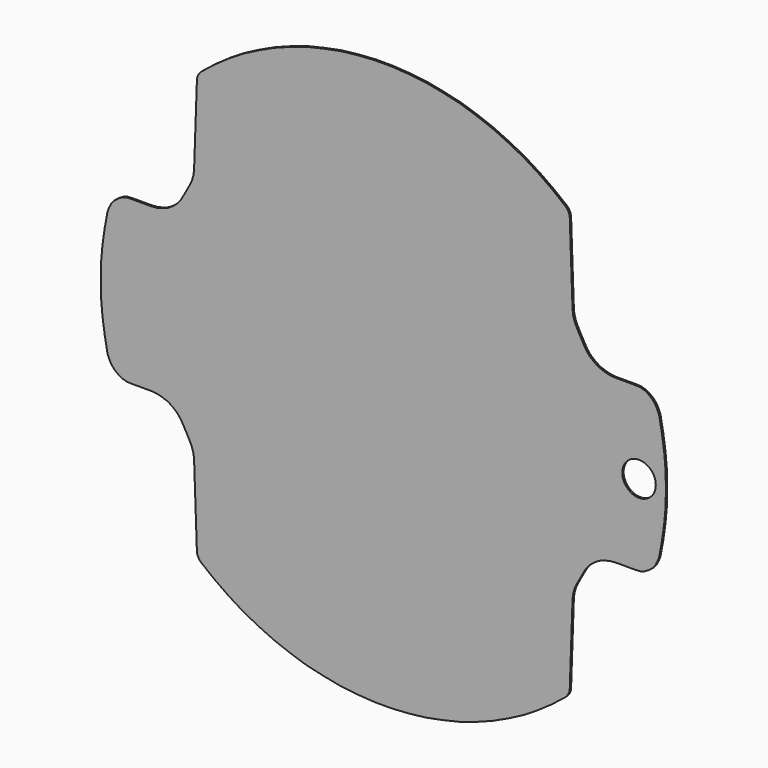
from build123d import *

# Parameters (mm, degrees)
F0_R     = 2
F1_DEPTH = 0.2


with BuildPart() as f1:
    # F0 (on Front) → F1 (new body)
    with BuildSketch(Plane.XZ):
        with BuildLine():
            add(Edge.make_bspline(
                [(23.697758, -14.841087), (23.71353, -14.808144), (23.745074, -14.742257), (23.79239, -14.643428), (23.823934, -14.577542), (23.839706, -14.544599)],
                knots=[0, 0, 0, 0, 0.109572, 0.219144, 0.328716, 0.328716, 0.328716, 0.328716], degree=3))
            add(Edge.make_bspline(
                [(23.839706, -14.544599), (23.857681, -14.506988), (23.893632, -14.431765), (23.947559, -14.318932), (23.98351, -14.24371), (24.001485, -14.206099)],
                knots=[0, 0, 0, 0, 0.125058, 0.250116, 0.375173, 0.375173, 0.375173, 0.375173], degree=3))
            add(Edge.make_bspline(
                [(24.001485, -14.206099), (24.079485, -14.064599), (24.235485, -13.781598), (24.469485, -13.357098), (24.625485, -13.074098), (24.703485, -12.932598)],
                knots=[0, 0, 0, 0, 0.484723, 0.969446, 1.454169, 1.454169, 1.454169, 1.454169], degree=3))
            add(Edge.make_bspline(
                [(24.703485, -12.932598), (24.740344, -12.869531), (24.814064, -12.743396), (24.924642, -12.554193), (24.998361, -12.428058), (25.035221, -12.364991)],
                knots=[0, 0, 0, 0, 0.219147, 0.438293, 0.65744, 0.65744, 0.65744, 0.65744], degree=3))
            add(Edge.make_bspline(
                [(25.035221, -12.364991), (25.083973, -12.305726), (25.181477, -12.187196), (25.327733, -12.009402), (25.425236, -11.890872), (25.473988, -11.831607)],
                knots=[0, 0, 0, 0, 0.230221, 0.460442, 0.690663, 0.690663, 0.690663, 0.690663], degree=3))
            add(Edge.make_bspline(
                [(25.473988, -11.831607), (25.53346, -11.783279), (25.652405, -11.686622), (25.830821, -11.541637), (25.949765, -11.44498), (26.009237, -11.396651)],
                knots=[0, 0, 0, 0, 0.229898, 0.459796, 0.689694, 0.689694, 0.689694, 0.689694], degree=3))
            add(Edge.make_bspline(
                [(26.009237, -11.396651), (26.072413, -11.35581), (26.198765, -11.274127), (26.388292, -11.151602), (26.514644, -11.069919), (26.57782, -11.029078)],
                knots=[0, 0, 0, 0, 0.225683, 0.451367, 0.67705, 0.67705, 0.67705, 0.67705], degree=3))
            add(Edge.make_bspline(
                [(26.57782, -11.029078), (26.648376, -11.003053), (26.789489, -10.951004), (27.001158, -10.872929), (27.14227, -10.82088), (27.212827, -10.794855)],
                knots=[0, 0, 0, 0, 0.225609, 0.451218, 0.676826, 0.676826, 0.676826, 0.676826], degree=3))
            add(Edge.make_bspline(
                [(27.212827, -10.794855), (27.283383, -10.776278), (27.424495, -10.739124), (27.636163, -10.683393), (27.777275, -10.646239), (27.847831, -10.627662)],
                knots=[0, 0, 0, 0, 0.218882, 0.437764, 0.656646, 0.656646, 0.656646, 0.656646], degree=3))
            add(Edge.make_bspline(
                [(27.847831, -10.627662), (27.925921, -10.620217), (28.082099, -10.605327), (28.316368, -10.582992), (28.472547, -10.568103), (28.550636, -10.560658)],
                knots=[0, 0, 0, 0, 0.235331, 0.470661, 0.705992, 0.705992, 0.705992, 0.705992], degree=3))
            add(Edge.make_bspline(
                [(28.550636, -10.560658), (28.814361, -10.560667), (29.34181, -10.560685), (30.132983, -10.560713), (30.660432, -10.560731), (30.924156, -10.56074)],
                knots=[0, 0, 0, 0, 0.791173, 1.582347, 2.37352, 2.37352, 2.37352, 2.37352], degree=3))
            add(Edge.make_bspline(
                [(30.924156, -10.56074), (30.987257, -10.557018), (31.113458, -10.549575), (31.30276, -10.53841), (31.428961, -10.530967), (31.492061, -10.527246)],
                knots=[0, 0, 0, 0, 0.189631, 0.379261, 0.568892, 0.568892, 0.568892, 0.568892], degree=3))
            add(Edge.make_bspline(
                [(31.492061, -10.527246), (31.551532, -10.508668), (31.670472, -10.471513), (31.848882, -10.41578), (31.967823, -10.378625), (32.027293, -10.360047)],
                knots=[0, 0, 0, 0, 0.186913, 0.373826, 0.560739, 0.560739, 0.560739, 0.560739], degree=3))
            add(Edge.make_bspline(
                [(32.027293, -10.360047), (32.079261, -10.330377), (32.183198, -10.271036), (32.339103, -10.182024), (32.443039, -10.122683), (32.495007, -10.093012)],
                knots=[0, 0, 0, 0, 0.179525, 0.359051, 0.538576, 0.538576, 0.538576, 0.538576], degree=3))
            add(Edge.make_bspline(
                [(32.495007, -10.093012), (32.543347, -10.055854), (32.640027, -9.981539), (32.785047, -9.870066), (32.881727, -9.795751), (32.930067, -9.758594)],
                knots=[0, 0, 0, 0, 0.182912, 0.365825, 0.548737, 0.548737, 0.548737, 0.548737], degree=3))
            add(Edge.make_bspline(
                [(32.930067, -9.758594), (32.970904, -9.710304), (33.052578, -9.613724), (33.17509, -9.468855), (33.256764, -9.372275), (33.297601, -9.323985)],
                knots=[0, 0, 0, 0, 0.189727, 0.379453, 0.56918, 0.56918, 0.56918, 0.56918], degree=3))
            add(Edge.make_bspline(
                [(33.297601, -9.323985), (33.327354, -9.268287), (33.386859, -9.15689), (33.476116, -8.989794), (33.535621, -8.878397), (33.565373, -8.822699)],
                knots=[0, 0, 0, 0, 0.189441, 0.378881, 0.568322, 0.568322, 0.568322, 0.568322], degree=3))
            add(Edge.make_bspline(
                [(33.565373, -8.822699), (33.587638, -8.766921), (33.632168, -8.655367), (33.698962, -8.488035), (33.743492, -8.376481), (33.765757, -8.320703)],
                knots=[0, 0, 0, 0, 0.180171, 0.360341, 0.540512, 0.540512, 0.540512, 0.540512], degree=3))
            add(Edge.make_bspline(
                [(33.765757, -8.320703), (33.802971, -8.116368), (33.877399, -7.707698), (33.989042, -7.094693), (34.06347, -6.686023), (34.100684, -6.481688)],
                knots=[0, 0, 0, 0, 0.623089, 1.246177, 1.869266, 1.869266, 1.869266, 1.869266], degree=3))
            add(Edge.make_bspline(
                [(34.100684, -6.481688), (34.130365, -6.273668), (34.189726, -5.857628), (34.278769, -5.233569), (34.33813, -4.817529), (34.367811, -4.60951)],
                knots=[0, 0, 0, 0, 0.63038, 1.260759, 1.891139, 1.891139, 1.891139, 1.891139], degree=3))
            add(Edge.make_bspline(
                [(34.367811, -4.60951), (34.38636, -4.401489), (34.423459, -3.985449), (34.479107, -3.361388), (34.516206, -2.945347), (34.534755, -2.737327)],
                knots=[0, 0, 0, 0, 0.626537, 1.253074, 1.879611, 1.879611, 1.879611, 1.879611], degree=3))
            add(Edge.make_bspline(
                [(34.534755, -2.737327), (34.538514, -2.529361), (34.546031, -2.113429), (34.557306, -1.489532), (34.564823, -1.0736), (34.568582, -0.865634)],
                knots=[0, 0, 0, 0, 0.624, 1.247999, 1.871999, 1.871999, 1.871999, 1.871999], degree=3))
            add(Edge.make_bspline(
                [(34.568582, -0.865634), (34.564838, -0.657613), (34.557349, -0.241571), (34.546117, 0.382492), (34.538629, 0.798533), (34.534885, 1.006554)],
                knots=[0, 0, 0, 0, 0.624164, 1.248328, 1.872492, 1.872492, 1.872492, 1.872492], degree=3))
            add(Edge.make_bspline(
                [(34.534885, 1.006554), (34.517847, 1.197764), (34.483773, 1.580185), (34.432662, 2.153815), (34.398588, 2.536235), (34.381551, 2.727445)],
                knots=[0, 0, 0, 0, 0.575903, 1.151806, 1.727709, 1.727709, 1.727709, 1.727709], degree=3))
            add(Edge.make_bspline(
                [(34.381551, 2.727445), (34.380053, 2.744229), (34.377057, 2.777797), (34.372563, 2.828149), (34.369567, 2.861717), (34.36807, 2.878501)],
                knots=[0, 0, 0, 0, 0.050552, 0.101104, 0.151656, 0.151656, 0.151656, 0.151656], degree=3))
            add(Edge.make_bspline(
                [(34.36807, 2.878501), (34.338403, 3.086598), (34.27907, 3.502791), (34.190071, 4.12708), (34.130738, 4.543272), (34.101072, 4.751369)],
                knots=[0, 0, 0, 0, 0.630601, 1.261202, 1.891803, 1.891803, 1.891803, 1.891803], degree=3))
            add(Edge.make_bspline(
                [(34.101072, 4.751369), (34.063872, 4.955675), (33.989472, 5.364287), (33.877872, 5.977206), (33.803472, 6.385819), (33.766272, 6.590125)],
                knots=[0, 0, 0, 0, 0.622996, 1.245992, 1.868987, 1.868987, 1.868987, 1.868987], degree=3))
            add(Edge.make_bspline(
                [(33.766272, 6.590125), (33.760779, 6.603905), (33.749793, 6.631466), (33.733314, 6.672807), (33.722328, 6.700368), (33.716835, 6.714148)],
                knots=[0, 0, 0, 0, 0.044504, 0.089009, 0.133513, 0.133513, 0.133513, 0.133513], degree=3))
            add(Edge.make_bspline(
                [(33.716835, 6.714148), (33.700067, 6.756131), (33.666531, 6.840096), (33.616227, 6.966044), (33.582691, 7.05001), (33.565923, 7.091993)],
                knots=[0, 0, 0, 0, 0.135622, 0.271245, 0.406867, 0.406867, 0.406867, 0.406867], degree=3))
            add(Edge.make_bspline(
                [(33.565923, 7.091993), (33.536174, 7.14765), (33.476677, 7.258965), (33.387431, 7.425937), (33.327934, 7.537252), (33.298185, 7.59291)],
                knots=[0, 0, 0, 0, 0.189327, 0.378653, 0.56798, 0.56798, 0.56798, 0.56798], degree=3))
            add(Edge.make_bspline(
                [(33.298185, 7.59291), (33.257352, 7.641281), (33.175684, 7.738023), (33.053183, 7.883136), (32.971515, 7.979879), (32.930681, 8.02825)],
                knots=[0, 0, 0, 0, 0.189906, 0.379813, 0.569719, 0.569719, 0.569719, 0.569719], degree=3))
            add(Edge.make_bspline(
                [(32.930681, 8.02825), (32.882369, 8.065317), (32.785744, 8.139452), (32.640806, 8.250653), (32.544181, 8.324788), (32.495868, 8.361855)],
                knots=[0, 0, 0, 0, 0.182682, 0.365364, 0.548046, 0.548046, 0.548046, 0.548046], degree=3))
            add(Edge.make_bspline(
                [(32.495868, 8.361855), (32.483634, 8.368876), (32.459165, 8.382917), (32.422462, 8.403979), (32.397993, 8.41802), (32.385758, 8.425041)],
                knots=[0, 0, 0, 0, 0.042317, 0.084634, 0.126951, 0.126951, 0.126951, 0.126951], degree=3))
            add(Edge.make_bspline(
                [(32.385758, 8.425041), (32.346002, 8.447839), (32.266489, 8.493435), (32.147219, 8.56183), (32.067705, 8.607426), (32.027949, 8.630225)],
                knots=[0, 0, 0, 0, 0.137489, 0.274977, 0.412466, 0.412466, 0.412466, 0.412466], degree=3))
            add(Edge.make_bspline(
                [(32.027949, 8.630225), (31.9996, 8.639064), (31.942902, 8.656742), (31.857855, 8.68326), (31.801156, 8.700939), (31.772807, 8.709778)],
                knots=[0, 0, 0, 0, 0.089085, 0.178171, 0.267256, 0.267256, 0.267256, 0.267256], degree=3))
            add(Edge.make_bspline(
                [(31.772807, 8.709778), (31.741733, 8.71945), (31.679585, 8.738793), (31.586363, 8.767809), (31.524215, 8.787152), (31.493141, 8.796824)],
                knots=[0, 0, 0, 0, 0.097633, 0.195267, 0.2929, 0.2929, 0.2929, 0.2929], degree=3))
            add(Edge.make_bspline(
                [(31.493141, 8.796824), (31.453887, 8.799141), (31.375379, 8.803776), (31.257617, 8.810728), (31.179109, 8.815363), (31.139855, 8.81768)],
                knots=[0, 0, 0, 0, 0.117967, 0.235934, 0.353901, 0.353901, 0.353901, 0.353901], degree=3))
            add(Edge.make_bspline(
                [(31.139855, 8.81768), (31.115963, 8.819073), (31.068179, 8.821859), (30.996502, 8.826038), (30.948718, 8.828823), (30.924826, 8.830216)],
                knots=[0, 0, 0, 0, 0.071798, 0.143596, 0.215394, 0.215394, 0.215394, 0.215394], degree=3))
            add(Edge.make_bspline(
                [(30.924826, 8.830216), (30.661101, 8.830225), (30.133652, 8.830244), (29.342479, 8.830271), (28.81503, 8.830289), (28.551306, 8.830298)],
                knots=[0, 0, 0, 0, 0.791173, 1.582347, 2.37352, 2.37352, 2.37352, 2.37352], degree=3))
            add(Edge.make_bspline(
                [(28.551306, 8.830298), (28.473217, 8.837756), (28.317039, 8.852672), (28.082772, 8.875046), (27.926594, 8.889962), (27.848505, 8.89742)],
                knots=[0, 0, 0, 0, 0.235333, 0.470666, 0.705998, 0.705998, 0.705998, 0.705998], degree=3))
            add(Edge.make_bspline(
                [(27.848505, 8.89742), (27.777951, 8.915963), (27.636841, 8.953049), (27.425177, 9.008677), (27.284067, 9.045763), (27.213512, 9.064306)],
                knots=[0, 0, 0, 0, 0.218852, 0.437705, 0.656557, 0.656557, 0.656557, 0.656557], degree=3))
            add(Edge.make_bspline(
                [(27.213512, 9.064306), (27.142958, 9.090324), (27.001849, 9.14236), (26.790185, 9.220413), (26.649076, 9.272449), (26.578522, 9.298466)],
                knots=[0, 0, 0, 0, 0.225597, 0.451193, 0.67679, 0.67679, 0.67679, 0.67679], degree=3))
            add(Edge.make_bspline(
                [(26.578522, 9.298466), (26.515349, 9.33932), (26.389003, 9.421028), (26.199484, 9.543589), (26.073138, 9.625297), (26.009965, 9.66615)],
                knots=[0, 0, 0, 0, 0.225696, 0.451392, 0.677088, 0.677088, 0.677088, 0.677088], degree=3))
            add(Edge.make_bspline(
                [(26.009965, 9.66615), (25.950343, 9.714369), (25.8311, 9.810807), (25.652235, 9.955463), (25.532991, 10.051901), (25.47337, 10.10012)],
                knots=[0, 0, 0, 0, 0.23004, 0.460079, 0.690119, 0.690119, 0.690119, 0.690119], degree=3))
            add(Edge.make_bspline(
                [(25.47337, 10.10012), (25.424775, 10.159651), (25.327585, 10.278713), (25.1818, 10.457305), (25.08461, 10.576367), (25.036015, 10.635898)],
                knots=[0, 0, 0, 0, 0.23054, 0.461079, 0.691619, 0.691619, 0.691619, 0.691619], degree=3))
            add(Edge.make_bspline(
                [(25.036015, 10.635898), (25.023759, 10.656903), (24.999247, 10.698913), (24.962478, 10.761928), (24.937966, 10.803938), (24.92571, 10.824943)],
                knots=[0, 0, 0, 0, 0.072958, 0.145915, 0.218873, 0.218873, 0.218873, 0.218873], degree=3))
            add(Edge.make_bspline(
                [(24.92571, 10.824943), (24.901111, 10.867071), (24.851913, 10.951326), (24.778116, 11.077709), (24.728917, 11.161964), (24.704318, 11.204091)],
                knots=[0, 0, 0, 0, 0.146351, 0.292702, 0.439053, 0.439053, 0.439053, 0.439053], degree=3))
            add(Edge.make_bspline(
                [(24.704318, 11.204091), (24.680698, 11.246847), (24.633457, 11.332358), (24.562595, 11.460625), (24.515354, 11.546136), (24.491733, 11.588892)],
                knots=[0, 0, 0, 0, 0.146539, 0.293079, 0.439618, 0.439618, 0.439618, 0.439618], degree=3))
            add(Edge.make_bspline(
                [(24.491733, 11.588892), (24.437364, 11.687234), (24.328624, 11.883919), (24.165515, 12.178945), (24.056776, 12.37563), (24.002407, 12.473972)],
                knots=[0, 0, 0, 0, 0.337113, 0.674226, 1.011339, 1.011339, 1.011339, 1.011339], degree=3))
            add(Edge.make_bspline(
                [(24.002407, 12.473972), (23.986299, 12.507681), (23.954083, 12.575099), (23.90576, 12.676226), (23.873545, 12.743644), (23.857437, 12.777353)],
                knots=[0, 0, 0, 0, 0.11208, 0.224159, 0.336239, 0.336239, 0.336239, 0.336239], degree=3))
            add(Edge.make_bspline(
                [(23.857437, 12.777353), (23.839802, 12.81417), (23.804532, 12.887802), (23.751628, 12.998251), (23.716358, 13.071883), (23.698723, 13.108699)],
                knots=[0, 0, 0, 0, 0.122466, 0.244931, 0.367397, 0.367397, 0.367397, 0.367397], degree=3))
            add(Edge.make_bspline(
                [(23.698723, 13.108699), (23.684762, 13.155404), (23.656839, 13.248813), (23.614954, 13.388927), (23.587031, 13.482336), (23.57307, 13.529041)],
                knots=[0, 0, 0, 0, 0.14624, 0.29248, 0.43872, 0.43872, 0.43872, 0.43872], degree=3))
            add(Edge.make_bspline(
                [(23.57307, 13.529041), (23.564723, 13.55689), (23.548028, 13.61259), (23.522987, 13.696139), (23.506293, 13.751838), (23.497946, 13.779688)],
                knots=[0, 0, 0, 0, 0.087221, 0.174442, 0.261663, 0.261663, 0.261663, 0.261663], degree=3))
            add(Edge.make_bspline(
                [(23.497946, 13.779688), (23.491223, 13.850188), (23.477778, 13.991189), (23.457611, 14.20269), (23.444166, 14.343691), (23.437444, 14.414191)],
                knots=[0, 0, 0, 0, 0.21246, 0.424921, 0.637381, 0.637381, 0.637381, 0.637381], degree=3))
            add(Edge.make_bspline(
                [(23.437444, 14.414191), (23.436729, 14.421655), (23.4353, 14.436582), (23.433156, 14.458973), (23.431727, 14.4739), (23.431012, 14.481364)],
                knots=[0, 0, 0, 0, 0.022493, 0.044987, 0.06748, 0.06748, 0.06748, 0.06748], degree=3))
            add(Edge.make_bspline(
                [(23.431012, 14.481364), (23.394191, 15.532637), (23.320549, 17.635183), (23.210086, 20.789002), (23.136443, 22.891548), (23.099622, 23.942821)],
                knots=[0, 0, 0, 0, 3.155753, 6.311506, 9.467259, 9.467259, 9.467259, 9.467259], degree=3))
            add(Edge.make_bspline(
                [(23.099622, 23.942821), (23.092184, 23.980059), (23.077307, 24.054535), (23.054992, 24.166248), (23.040115, 24.240724), (23.032677, 24.277962)],
                knots=[0, 0, 0, 0, 0.11392, 0.227841, 0.341761, 0.341761, 0.341761, 0.341761], degree=3))
            add(Edge.make_bspline(
                [(23.032677, 24.277962), (23.01386, 24.315232), (22.976225, 24.389771), (22.919773, 24.501579), (22.882138, 24.576119), (22.863321, 24.613388)],
                knots=[0, 0, 0, 0, 0.125252, 0.250504, 0.375756, 0.375756, 0.375756, 0.375756], degree=3))
            add(Edge.make_bspline(
                [(22.863321, 24.613388), (22.837448, 24.642787), (22.785701, 24.701585), (22.708081, 24.789782), (22.656335, 24.84858), (22.630462, 24.877979)],
                knots=[0, 0, 0, 0, 0.117488, 0.234977, 0.352465, 0.352465, 0.352465, 0.352465], degree=3))
            add(Edge.make_bspline(
                [(22.630462, 24.877979), (22.452118, 25.019064), (22.095431, 25.301236), (21.5604, 25.724493), (21.203713, 26.006664), (21.02537, 26.14775)],
                knots=[0, 0, 0, 0, 0.682205, 1.364411, 2.046616, 2.046616, 2.046616, 2.046616], degree=3))
            add(Edge.make_bspline(
                [(21.02537, 26.14775), (20.839582, 26.277891), (20.468007, 26.538175), (19.910645, 26.928601), (19.53907, 27.188885), (19.353282, 27.319027)],
                knots=[0, 0, 0, 0, 0.680504, 1.361007, 2.041511, 2.041511, 2.041511, 2.041511], degree=3))
            add(Edge.make_bspline(
                [(19.353282, 27.319027), (19.156519, 27.441722), (18.762993, 27.687112), (18.172704, 28.055196), (17.779178, 28.300586), (17.582415, 28.423281)],
                knots=[0, 0, 0, 0, 0.695649, 1.391298, 2.086947, 2.086947, 2.086947, 2.086947], degree=3))
            add(Edge.make_bspline(
                [(17.582415, 28.423281), (17.381732, 28.527192), (16.980365, 28.735015), (16.378314, 29.04675), (15.976947, 29.254573), (15.776264, 29.358484)],
                knots=[0, 0, 0, 0, 0.67797, 1.35594, 2.033909, 2.033909, 2.033909, 2.033909], degree=3))
            add(Edge.make_bspline(
                [(15.776264, 29.358484), (15.568121, 29.455277), (15.151835, 29.648862), (14.527406, 29.939239), (14.11112, 30.132824), (13.902977, 30.229616)],
                knots=[0, 0, 0, 0, 0.688644, 1.377288, 2.065932, 2.065932, 2.065932, 2.065932], degree=3))
            add(Edge.make_bspline(
                [(13.902977, 30.229616), (13.791209, 30.271985), (13.567674, 30.356722), (13.232372, 30.483828), (13.008837, 30.568566), (12.897069, 30.610934)],
                knots=[0, 0, 0, 0, 0.358586, 0.717171, 1.075757, 1.075757, 1.075757, 1.075757], degree=3))
            add(Edge.make_bspline(
                [(12.897069, 30.610934), (12.793654, 30.650106), (12.586822, 30.728451), (12.276574, 30.845967), (12.069743, 30.924312), (11.966327, 30.963484)],
                knots=[0, 0, 0, 0, 0.331758, 0.663517, 0.995275, 0.995275, 0.995275, 0.995275], degree=3))
            add(Edge.make_bspline(
                [(11.966327, 30.963484), (11.750743, 31.034047), (11.319576, 31.175172), (10.672826, 31.386861), (10.241658, 31.527987), (10.026075, 31.598549)],
                knots=[0, 0, 0, 0, 0.680513, 1.361027, 2.04154, 2.04154, 2.04154, 2.04154], degree=3))
            add(Edge.make_bspline(
                [(10.026075, 31.598549), (9.803031, 31.650678), (9.356944, 31.754934), (8.687814, 31.911318), (8.241727, 32.015575), (8.018683, 32.067703)],
                knots=[0, 0, 0, 0, 0.687162, 1.374324, 2.061487, 2.061487, 2.061487, 2.061487], degree=3))
            add(Edge.make_bspline(
                [(8.018683, 32.067703), (7.792123, 32.112405), (7.339004, 32.20181), (6.659325, 32.335917), (6.206206, 32.425321), (5.979646, 32.470023)],
                knots=[0, 0, 0, 0, 0.692783, 1.385566, 2.078349, 2.078349, 2.078349, 2.078349], degree=3))
            add(Edge.make_bspline(
                [(5.979646, 32.470023), (5.753097, 32.495892), (5.3, 32.54763), (4.620354, 32.625236), (4.167257, 32.676974), (3.940708, 32.702842)],
                knots=[0, 0, 0, 0, 0.684062, 1.368125, 2.052187, 2.052187, 2.052187, 2.052187], degree=3))
            add(Edge.make_bspline(
                [(3.940708, 32.702842), (3.714143, 32.717748), (3.261014, 32.74756), (2.58132, 32.792278), (2.128191, 32.82209), (1.901626, 32.836997)],
                knots=[0, 0, 0, 0, 0.681164, 1.362327, 2.043491, 2.043491, 2.043491, 2.043491], degree=3))
            add(Edge.make_bspline(
                [(1.901626, 32.836997), (1.671141, 32.837004), (1.210171, 32.83702), (0.518717, 32.837044), (0.057747, 32.83706), (-0.172738, 32.837068)],
                knots=[0, 0, 0, 0, 0.691455, 1.382909, 2.074364, 2.074364, 2.074364, 2.074364], degree=3))
            add(Edge.make_bspline(
                [(-0.172738, 32.837068), (-0.3993, 32.822178), (-0.852424, 32.792397), (-1.532109, 32.747726), (-1.985233, 32.717945), (-2.211795, 32.703055)],
                knots=[0, 0, 0, 0, 0.681152, 1.362304, 2.043456, 2.043456, 2.043456, 2.043456], degree=3))
            add(Edge.make_bspline(
                [(-2.211795, 32.703055), (-2.438357, 32.677202), (-2.891481, 32.625495), (-3.571167, 32.547936), (-4.024291, 32.49623), (-4.250853, 32.470377)],
                knots=[0, 0, 0, 0, 0.684097, 1.368194, 2.052292, 2.052292, 2.052292, 2.052292], degree=3))
            add(Edge.make_bspline(
                [(-4.250853, 32.470377), (-4.477416, 32.42569), (-4.930542, 32.336317), (-5.610231, 32.202257), (-6.063356, 32.112884), (-6.289919, 32.068197)],
                knots=[0, 0, 0, 0, 0.692783, 1.385567, 2.07835, 2.07835, 2.07835, 2.07835], degree=3))
            add(Edge.make_bspline(
                [(-6.289919, 32.068197), (-6.512955, 32.016084), (-6.959025, 31.911859), (-7.628131, 31.75552), (-8.074201, 31.651295), (-8.297236, 31.599182)],
                knots=[0, 0, 0, 0, 0.687127, 1.374255, 2.061382, 2.061382, 2.061382, 2.061382], degree=3))
            add(Edge.make_bspline(
                [(-8.297236, 31.599182), (-8.512472, 31.528634), (-8.942944, 31.387538), (-9.588651, 31.175894), (-10.019122, 31.034798), (-10.234358, 30.96425)],
                knots=[0, 0, 0, 0, 0.679508, 1.359015, 2.038523, 2.038523, 2.038523, 2.038523], degree=3))
            add(Edge.make_bspline(
                [(-10.234358, 30.96425), (-10.308373, 30.936266), (-10.456405, 30.880298), (-10.678452, 30.796345), (-10.826483, 30.740377), (-10.900499, 30.712393)],
                knots=[0, 0, 0, 0, 0.237388, 0.474776, 0.712163, 0.712163, 0.712163, 0.712163], degree=3))
            add(Edge.make_bspline(
                [(-10.900499, 30.712393), (-11.042033, 30.658851), (-11.325101, 30.551767), (-11.749702, 30.391142), (-12.03277, 30.284059), (-12.174304, 30.230517)],
                knots=[0, 0, 0, 0, 0.453968, 0.907936, 1.361904, 1.361904, 1.361904, 1.361904], degree=3))
            add(Edge.make_bspline(
                [(-12.174304, 30.230517), (-12.382446, 30.133739), (-12.798729, 29.940183), (-13.423155, 29.649848), (-13.839439, 29.456292), (-14.04758, 29.359514)],
                knots=[0, 0, 0, 0, 0.688623, 1.377245, 2.065868, 2.065868, 2.065868, 2.065868], degree=3))
            add(Edge.make_bspline(
                [(-14.04758, 29.359514), (-14.247883, 29.255617), (-14.648488, 29.047821), (-15.249396, 28.736128), (-15.650001, 28.528333), (-15.850304, 28.424435)],
                knots=[0, 0, 0, 0, 0.676936, 1.353873, 2.030809, 2.030809, 2.030809, 2.030809], degree=3))
            add(Edge.make_bspline(
                [(-15.850304, 28.424435), (-16.047432, 28.30177), (-16.441689, 28.056439), (-17.033073, 27.688442), (-17.427329, 27.443111), (-17.624458, 27.320446)],
                knots=[0, 0, 0, 0, 0.696532, 1.393064, 2.089597, 2.089597, 2.089597, 2.089597], degree=3))
            add(Edge.make_bspline(
                [(-17.624458, 27.320446), (-17.809866, 27.190301), (-18.180683, 26.930011), (-18.736908, 26.539576), (-19.107725, 26.279287), (-19.293134, 26.149142)],
                knots=[0, 0, 0, 0, 0.679578, 1.359155, 2.038733, 2.038733, 2.038733, 2.038733], degree=3))
            add(Edge.make_bspline(
                [(-19.293134, 26.149142), (-19.364344, 26.092847), (-19.506765, 25.980258), (-19.720395, 25.811374), (-19.862816, 25.698784), (-19.934026, 25.64249)],
                knots=[0, 0, 0, 0, 0.272323, 0.544647, 0.81697, 0.81697, 0.81697, 0.81697], degree=3))
            add(Edge.make_bspline(
                [(-19.934026, 25.64249), (-20.041209, 25.557711), (-20.255573, 25.388154), (-20.57712, 25.133818), (-20.791484, 24.96426), (-20.898666, 24.879482)],
                knots=[0, 0, 0, 0, 0.409974, 0.819949, 1.229923, 1.229923, 1.229923, 1.229923], degree=3))
            add(Edge.make_bspline(
                [(-20.898666, 24.879482), (-20.915889, 24.860204), (-20.950335, 24.821647), (-21.002004, 24.763813), (-21.03645, 24.725257), (-21.053673, 24.705978)],
                knots=[0, 0, 0, 0, 0.077553, 0.155107, 0.23266, 0.23266, 0.23266, 0.23266], degree=3))
            add(Edge.make_bspline(
                [(-21.053673, 24.705978), (-21.062714, 24.695828), (-21.080794, 24.675527), (-21.107915, 24.645076), (-21.125996, 24.624776), (-21.135036, 24.614625)],
                knots=[0, 0, 0, 0, 0.040778, 0.081555, 0.122333, 0.122333, 0.122333, 0.122333], degree=3))
            add(Edge.make_bspline(
                [(-21.135036, 24.614625), (-21.153421, 24.577388), (-21.190191, 24.502915), (-21.245345, 24.391204), (-21.282115, 24.31673), (-21.3005, 24.279493)],
                knots=[0, 0, 0, 0, 0.124585, 0.24917, 0.373754, 0.373754, 0.373754, 0.373754], degree=3))
            add(Edge.make_bspline(
                [(-21.3005, 24.279493), (-21.307949, 24.242255), (-21.322846, 24.167781), (-21.345193, 24.056069), (-21.36009, 23.981594), (-21.367539, 23.944357)],
                knots=[0, 0, 0, 0, 0.113925, 0.22785, 0.341775, 0.341775, 0.341775, 0.341775], degree=3))
            add(Edge.make_bspline(
                [(-21.367539, 23.944357), (-21.404852, 22.893086), (-21.479478, 20.790545), (-21.591417, 17.636734), (-21.666044, 15.534193), (-21.703357, 14.482922)],
                knots=[0, 0, 0, 0, 3.155797, 6.311595, 9.467392, 9.467392, 9.467392, 9.467392], degree=3))
            add(Edge.make_bspline(
                [(-21.703357, 14.482922), (-21.710768, 14.404927), (-21.72559, 14.248938), (-21.747823, 14.014953), (-21.762645, 13.858964), (-21.770056, 13.780969)],
                knots=[0, 0, 0, 0, 0.235038, 0.470077, 0.705115, 0.705115, 0.705115, 0.705115], degree=3))
            add(Edge.make_bspline(
                [(-21.770056, 13.780969), (-21.79244, 13.706448), (-21.837209, 13.557405), (-21.904362, 13.333841), (-21.94913, 13.184798), (-21.971515, 13.110276)],
                knots=[0, 0, 0, 0, 0.233432, 0.466864, 0.700296, 0.700296, 0.700296, 0.700296], degree=3))
            add(Edge.make_bspline(
                [(-21.971515, 13.110276), (-21.979551, 13.09329), (-21.995625, 13.059317), (-22.019736, 13.008358), (-22.035809, 12.974385), (-22.043846, 12.957399)],
                knots=[0, 0, 0, 0, 0.056375, 0.11275, 0.169125, 0.169125, 0.169125, 0.169125], degree=3))
            add(Edge.make_bspline(
                [(-22.043846, 12.957399), (-22.06913, 12.903862), (-22.119696, 12.796789), (-22.195547, 12.63618), (-22.246113, 12.529106), (-22.271397, 12.47557)],
                knots=[0, 0, 0, 0, 0.17762, 0.355239, 0.532859, 0.532859, 0.532859, 0.532859], degree=3))
            add(Edge.make_bspline(
                [(-22.271397, 12.47557), (-22.349405, 12.334509), (-22.50542, 12.052387), (-22.739444, 11.629204), (-22.895459, 11.347082), (-22.973467, 11.206021)],
                knots=[0, 0, 0, 0, 0.483581, 0.967163, 1.450744, 1.450744, 1.450744, 1.450744], degree=3))
            add(Edge.make_bspline(
                [(-22.973467, 11.206021), (-22.988676, 11.180225), (-23.019094, 11.128634), (-23.064721, 11.051248), (-23.095139, 10.999657), (-23.110348, 10.973861)],
                knots=[0, 0, 0, 0, 0.089836, 0.179672, 0.269508, 0.269508, 0.269508, 0.269508], degree=3))
            add(Edge.make_bspline(
                [(-23.110348, 10.973861), (-23.132339, 10.936511), (-23.176323, 10.86181), (-23.242297, 10.749759), (-23.286281, 10.675059), (-23.308272, 10.637708)],
                knots=[0, 0, 0, 0, 0.130031, 0.260062, 0.390093, 0.390093, 0.390093, 0.390093], degree=3))
            add(Edge.make_bspline(
                [(-23.308272, 10.637708), (-23.356487, 10.578181), (-23.452917, 10.459126), (-23.597562, 10.280543), (-23.693992, 10.161488), (-23.742207, 10.10196)],
                knots=[0, 0, 0, 0, 0.229813, 0.459626, 0.689438, 0.689438, 0.689438, 0.689438], degree=3))
            add(Edge.make_bspline(
                [(-23.742207, 10.10196), (-23.772427, 10.077433), (-23.832868, 10.028379), (-23.923529, 9.954798), (-23.983969, 9.905744), (-24.01419, 9.881217)],
                knots=[0, 0, 0, 0, 0.116763, 0.233526, 0.350289, 0.350289, 0.350289, 0.350289], degree=3))
            add(Edge.make_bspline(
                [(-24.01419, 9.881217), (-24.043433, 9.857466), (-24.101921, 9.809966), (-24.189653, 9.738715), (-24.248141, 9.691214), (-24.277385, 9.667464)],
                knots=[0, 0, 0, 0, 0.11302, 0.22604, 0.339061, 0.339061, 0.339061, 0.339061], degree=3))
            add(Edge.make_bspline(
                [(-24.277385, 9.667464), (-24.340572, 9.62663), (-24.466948, 9.544963), (-24.656511, 9.422461), (-24.782886, 9.340794), (-24.846073, 9.29996)],
                knots=[0, 0, 0, 0, 0.2257, 0.451401, 0.677101, 0.677101, 0.677101, 0.677101], degree=3))
            add(Edge.make_bspline(
                [(-24.846073, 9.29996), (-24.91663, 9.273935), (-25.057742, 9.221886), (-25.269411, 9.143812), (-25.410524, 9.091762), (-25.48108, 9.065738)],
                knots=[0, 0, 0, 0, 0.225609, 0.451218, 0.676826, 0.676826, 0.676826, 0.676826], degree=3))
            add(Edge.make_bspline(
                [(-25.48108, 9.065738), (-25.511224, 9.057816), (-25.57151, 9.041973), (-25.66194, 9.018208), (-25.722227, 9.002365), (-25.75237, 8.994444)],
                knots=[0, 0, 0, 0, 0.093501, 0.187001, 0.280502, 0.280502, 0.280502, 0.280502], degree=3))
            add(Edge.make_bspline(
                [(-25.75237, 8.994444), (-25.792822, 8.983792), (-25.873726, 8.962489), (-25.995082, 8.930534), (-26.075986, 8.90923), (-26.116438, 8.898579)],
                knots=[0, 0, 0, 0, 0.125492, 0.250985, 0.376477, 0.376477, 0.376477, 0.376477], degree=3))
            add(Edge.make_bspline(
                [(-26.116438, 8.898579), (-26.166219, 8.893865), (-26.265781, 8.884437), (-26.415125, 8.870296), (-26.514687, 8.860868), (-26.564468, 8.856154)],
                knots=[0, 0, 0, 0, 0.150011, 0.300023, 0.450034, 0.450034, 0.450034, 0.450034], degree=3))
            add(Edge.make_bspline(
                [(-26.564468, 8.856154), (-26.592729, 8.853462), (-26.649252, 8.848079), (-26.734036, 8.840004), (-26.790558, 8.83462), (-26.81882, 8.831928)],
                knots=[0, 0, 0, 0, 0.085168, 0.170335, 0.255503, 0.255503, 0.255503, 0.255503], degree=3))
            add(Edge.make_bspline(
                [(-26.81882, 8.831928), (-27.08254, 8.831937), (-27.609981, 8.831956), (-28.401142, 8.831983), (-28.928583, 8.832001), (-29.192304, 8.83201)],
                knots=[0, 0, 0, 0, 0.791161, 1.582323, 2.373484, 2.373484, 2.373484, 2.373484], degree=3))
            add(Edge.make_bspline(
                [(-29.192304, 8.83201), (-29.255451, 8.82832), (-29.381746, 8.820939), (-29.571187, 8.809869), (-29.697482, 8.802488), (-29.760629, 8.798798)],
                knots=[0, 0, 0, 0, 0.189765, 0.37953, 0.569295, 0.569295, 0.569295, 0.569295], degree=3))
            add(Edge.make_bspline(
                [(-29.760629, 8.798798), (-29.820027, 8.780268), (-29.938823, 8.743207), (-30.117016, 8.687617), (-30.235812, 8.650556), (-30.29521, 8.632026)],
                knots=[0, 0, 0, 0, 0.186664, 0.373327, 0.559991, 0.559991, 0.559991, 0.559991], degree=3))
            add(Edge.make_bspline(
                [(-30.29521, 8.632026), (-30.347213, 8.602237), (-30.451219, 8.54266), (-30.607227, 8.453295), (-30.711233, 8.393718), (-30.763236, 8.363929)],
                knots=[0, 0, 0, 0, 0.179791, 0.359583, 0.539374, 0.539374, 0.539374, 0.539374], degree=3))
            add(Edge.make_bspline(
                [(-30.763236, 8.363929), (-30.79503, 8.339545), (-30.858619, 8.290777), (-30.954002, 8.217624), (-31.01759, 8.168856), (-31.049385, 8.144471)],
                knots=[0, 0, 0, 0, 0.120205, 0.24041, 0.360615, 0.360615, 0.360615, 0.360615], degree=3))
            add(Edge.make_bspline(
                [(-31.049385, 8.144471), (-31.065922, 8.131772), (-31.098997, 8.106375), (-31.148609, 8.068278), (-31.181684, 8.042881), (-31.198222, 8.030182)],
                knots=[0, 0, 0, 0, 0.062552, 0.125103, 0.187655, 0.187655, 0.187655, 0.187655], degree=3))
            add(Edge.make_bspline(
                [(-31.198222, 8.030182), (-31.239106, 7.981814), (-31.320875, 7.885077), (-31.443529, 7.739972), (-31.525298, 7.643236), (-31.566183, 7.594868)],
                knots=[0, 0, 0, 0, 0.189998, 0.379997, 0.569995, 0.569995, 0.569995, 0.569995], degree=3))
            add(Edge.make_bspline(
                [(-31.566183, 7.594868), (-31.571411, 7.585088), (-31.581867, 7.565529), (-31.597551, 7.53619), (-31.608007, 7.516631), (-31.613235, 7.506852)],
                knots=[0, 0, 0, 0, 0.033268, 0.066536, 0.099804, 0.099804, 0.099804, 0.099804], degree=3))
            add(Edge.make_bspline(
                [(-31.613235, 7.506852), (-31.637721, 7.460976), (-31.686692, 7.369224), (-31.760149, 7.231596), (-31.80912, 7.139845), (-31.833606, 7.093969)],
                knots=[0, 0, 0, 0, 0.156004, 0.312008, 0.468012, 0.468012, 0.468012, 0.468012], degree=3))
            add(Edge.make_bspline(
                [(-31.833606, 7.093969), (-31.843949, 7.068125), (-31.864637, 7.016437), (-31.895668, 6.938905), (-31.916355, 6.887217), (-31.926699, 6.861373)],
                knots=[0, 0, 0, 0, 0.083511, 0.167022, 0.250533, 0.250533, 0.250533, 0.250533], degree=3))
            add(Edge.make_bspline(
                [(-31.926699, 6.861373), (-31.938621, 6.831471), (-31.962466, 6.771667), (-31.998233, 6.681962), (-32.022078, 6.622158), (-32.034, 6.592256)],
                knots=[0, 0, 0, 0, 0.096573, 0.193147, 0.28972, 0.28972, 0.28972, 0.28972], degree=3))
            add(Edge.make_bspline(
                [(-32.034, 6.592256), (-32.053929, 6.482811), (-32.093785, 6.263922), (-32.153569, 5.935588), (-32.193425, 5.716699), (-32.213353, 5.607254)],
                knots=[0, 0, 0, 0, 0.333732, 0.667465, 1.001197, 1.001197, 1.001197, 1.001197], degree=3))
            add(Edge.make_bspline(
                [(-32.213353, 5.607254), (-32.230592, 5.512384), (-32.265068, 5.322642), (-32.316782, 5.038029), (-32.351258, 4.848288), (-32.368496, 4.753417)],
                knots=[0, 0, 0, 0, 0.289273, 0.578545, 0.867818, 0.867818, 0.867818, 0.867818], degree=3))
            add(Edge.make_bspline(
                [(-32.368496, 4.753417), (-32.38296, 4.652286), (-32.411888, 4.450025), (-32.455279, 4.146632), (-32.484207, 3.944371), (-32.498671, 3.84324)],
                knots=[0, 0, 0, 0, 0.30648, 0.612959, 0.919439, 0.919439, 0.919439, 0.919439], degree=3))
            add(Edge.make_bspline(
                [(-32.498671, 3.84324), (-32.513926, 3.736304), (-32.544436, 3.522432), (-32.590201, 3.201623), (-32.620711, 2.987751), (-32.635966, 2.880815)],
                knots=[0, 0, 0, 0, 0.324056, 0.648113, 0.972169, 0.972169, 0.972169, 0.972169], degree=3))
            add(Edge.make_bspline(
                [(-32.635966, 2.880815), (-32.653315, 2.686652), (-32.688011, 2.298327), (-32.740056, 1.715839), (-32.774752, 1.327514), (-32.7921, 1.133351)],
                knots=[0, 0, 0, 0, 0.584808, 1.169617, 1.754425, 1.754425, 1.754425, 1.754425], degree=3))
            add(Edge.make_bspline(
                [(-32.7921, 1.133351), (-32.793339, 1.119458), (-32.795816, 1.091673), (-32.799531, 1.049994), (-32.802008, 1.022208), (-32.803247, 1.008315)],
                knots=[0, 0, 0, 0, 0.041844, 0.083688, 0.125532, 0.125532, 0.125532, 0.125532], degree=3))
            add(Edge.make_bspline(
                [(-32.803247, 1.008315), (-32.806978, 0.800342), (-32.81444, 0.384394), (-32.825632, -0.239527), (-32.833094, -0.655474), (-32.836825, -0.863448)],
                knots=[0, 0, 0, 0, 0.624021, 1.248043, 1.872064, 1.872064, 1.872064, 1.872064], degree=3))
            add(Edge.make_bspline(
                [(-32.836825, -0.863448), (-32.833109, -1.071437), (-32.825676, -1.487417), (-32.814526, -2.111386), (-32.807093, -2.527365), (-32.803376, -2.735355)],
                knots=[0, 0, 0, 0, 0.624069, 1.248137, 1.872206, 1.872206, 1.872206, 1.872206], degree=3))
            add(Edge.make_bspline(
                [(-32.803376, -2.735355), (-32.784804, -2.943377), (-32.747659, -3.35942), (-32.691942, -3.983484), (-32.654797, -4.399527), (-32.636225, -4.607549)],
                knots=[0, 0, 0, 0, 0.626547, 1.253094, 1.879641, 1.879641, 1.879641, 1.879641], degree=3))
            add(Edge.make_bspline(
                [(-32.636225, -4.607549), (-32.620423, -4.718356), (-32.58882, -4.939969), (-32.541414, -5.272389), (-32.509811, -5.494002), (-32.494009, -5.604809)],
                knots=[0, 0, 0, 0, 0.335783, 0.671566, 1.007349, 1.007349, 1.007349, 1.007349], degree=3))
            add(Edge.make_bspline(
                [(-32.494009, -5.604809), (-32.480106, -5.702024), (-32.452301, -5.896454), (-32.410592, -6.1881), (-32.382787, -6.38253), (-32.368884, -6.479746)],
                knots=[0, 0, 0, 0, 0.294613, 0.589226, 0.883839, 0.883839, 0.883839, 0.883839], degree=3))
            add(Edge.make_bspline(
                [(-32.368884, -6.479746), (-32.350301, -6.582059), (-32.313136, -6.786687), (-32.257387, -7.093628), (-32.220222, -7.298256), (-32.201639, -7.400569)],
                knots=[0, 0, 0, 0, 0.311963, 0.623926, 0.935889, 0.935889, 0.935889, 0.935889], degree=3))
            add(Edge.make_bspline(
                [(-32.201639, -7.400569), (-32.18307, -7.502593), (-32.145931, -7.706641), (-32.090223, -8.012713), (-32.053085, -8.216761), (-32.034515, -8.318784)],
                knots=[0, 0, 0, 0, 0.3111, 0.6222, 0.9333, 0.9333, 0.9333, 0.9333], degree=3))
            add(Edge.make_bspline(
                [(-32.034515, -8.318784), (-32.02342, -8.346634), (-32.001228, -8.402334), (-31.967941, -8.485883), (-31.945749, -8.541583), (-31.934654, -8.569433)],
                knots=[0, 0, 0, 0, 0.089936, 0.179873, 0.269809, 0.269809, 0.269809, 0.269809], degree=3))
            add(Edge.make_bspline(
                [(-31.934654, -8.569433), (-31.923487, -8.597362), (-31.901154, -8.65322), (-31.867655, -8.737006), (-31.845322, -8.792864), (-31.834155, -8.820793)],
                knots=[0, 0, 0, 0, 0.090236, 0.180471, 0.270707, 0.270707, 0.270707, 0.270707], degree=3))
            add(Edge.make_bspline(
                [(-31.834155, -8.820793), (-31.804445, -8.876494), (-31.745026, -8.987895), (-31.655896, -9.154997), (-31.596477, -9.266398), (-31.566767, -9.322099)],
                knots=[0, 0, 0, 0, 0.189386, 0.378772, 0.568158, 0.568158, 0.568158, 0.568158], degree=3))
            add(Edge.make_bspline(
                [(-31.566767, -9.322099), (-31.525886, -9.370391), (-31.444123, -9.466977), (-31.321479, -9.611854), (-31.239717, -9.70844), (-31.198836, -9.756732)],
                knots=[0, 0, 0, 0, 0.189819, 0.379637, 0.569456, 0.569456, 0.569456, 0.569456], degree=3))
            add(Edge.make_bspline(
                [(-31.198836, -9.756732), (-31.150546, -9.793893), (-31.053966, -9.868215), (-30.909096, -9.979697), (-30.812516, -10.054019), (-30.764226, -10.09118)],
                knots=[0, 0, 0, 0, 0.182799, 0.365599, 0.548398, 0.548398, 0.548398, 0.548398], degree=3))
            add(Edge.make_bspline(
                [(-30.764226, -10.09118), (-30.712212, -10.120854), (-30.608184, -10.180203), (-30.452142, -10.269225), (-30.348114, -10.328574), (-30.2961, -10.358248)],
                knots=[0, 0, 0, 0, 0.17965, 0.3593, 0.53895, 0.53895, 0.53895, 0.53895], degree=3))
            add(Edge.make_bspline(
                [(-30.2961, -10.358248), (-30.236678, -10.37683), (-30.117832, -10.413993), (-29.939564, -10.469738), (-29.820719, -10.506902), (-29.761296, -10.525483)],
                knots=[0, 0, 0, 0, 0.186781, 0.373561, 0.560342, 0.560342, 0.560342, 0.560342], degree=3))
            add(Edge.make_bspline(
                [(-29.761296, -10.525483), (-29.698149, -10.529209), (-29.571855, -10.536661), (-29.382414, -10.547839), (-29.25612, -10.555291), (-29.192973, -10.559017)],
                knots=[0, 0, 0, 0, 0.18977, 0.379541, 0.569311, 0.569311, 0.569311, 0.569311], degree=3))
            add(Edge.make_bspline(
                [(-29.192973, -10.559017), (-28.929253, -10.559026), (-28.401812, -10.559044), (-27.610651, -10.559072), (-27.08321, -10.55909), (-26.819489, -10.559099)],
                knots=[0, 0, 0, 0, 0.791161, 1.582323, 2.373484, 2.373484, 2.373484, 2.373484], degree=3))
            add(Edge.make_bspline(
                [(-26.819489, -10.559099), (-26.741408, -10.566549), (-26.585246, -10.581449), (-26.351002, -10.6038), (-26.19484, -10.6187), (-26.116759, -10.62615)],
                knots=[0, 0, 0, 0, 0.235307, 0.470615, 0.705922, 0.705922, 0.705922, 0.705922], degree=3))
            add(Edge.make_bspline(
                [(-26.116759, -10.62615), (-26.046204, -10.644732), (-25.905095, -10.681896), (-25.69343, -10.737643), (-25.552321, -10.774807), (-25.481766, -10.793389)],
                knots=[0, 0, 0, 0, 0.218882, 0.437764, 0.656647, 0.656647, 0.656647, 0.656647], degree=3))
            add(Edge.make_bspline(
                [(-25.481766, -10.793389), (-25.411211, -10.819418), (-25.270102, -10.871478), (-25.058439, -10.949566), (-24.91733, -11.001626), (-24.846775, -11.027655)],
                knots=[0, 0, 0, 0, 0.225609, 0.451218, 0.676826, 0.676826, 0.676826, 0.676826], degree=3))
            add(Edge.make_bspline(
                [(-24.846775, -11.027655), (-24.78359, -11.068501), (-24.657221, -11.150193), (-24.467666, -11.27273), (-24.341297, -11.354422), (-24.278112, -11.395268)],
                knots=[0, 0, 0, 0, 0.225713, 0.451426, 0.677139, 0.677139, 0.677139, 0.677139], degree=3))
            add(Edge.make_bspline(
                [(-24.278112, -11.395268), (-24.218651, -11.443601), (-24.099729, -11.540266), (-23.921347, -11.685263), (-23.802425, -11.781928), (-23.742964, -11.830261)],
                knots=[0, 0, 0, 0, 0.22988, 0.459759, 0.689639, 0.689639, 0.689639, 0.689639], degree=3))
            add(Edge.make_bspline(
                [(-23.742964, -11.830261), (-23.694753, -11.88949), (-23.598332, -12.007948), (-23.453699, -12.185635), (-23.357277, -12.304093), (-23.309066, -12.363322)],
                knots=[0, 0, 0, 0, 0.22911, 0.458219, 0.687329, 0.687329, 0.687329, 0.687329], degree=3))
            add(Edge.make_bspline(
                [(-23.309066, -12.363322), (-23.290488, -12.394857), (-23.253331, -12.457927), (-23.197596, -12.552532), (-23.160439, -12.615602), (-23.14186, -12.647137)],
                knots=[0, 0, 0, 0, 0.109802, 0.219605, 0.329407, 0.329407, 0.329407, 0.329407], degree=3))
            add(Edge.make_bspline(
                [(-23.14186, -12.647137), (-23.123242, -12.678672), (-23.086007, -12.741742), (-23.030154, -12.836347), (-22.992918, -12.899417), (-22.974301, -12.930952)],
                knots=[0, 0, 0, 0, 0.109862, 0.219724, 0.329586, 0.329586, 0.329586, 0.329586], degree=3))
            add(Edge.make_bspline(
                [(-22.974301, -12.930952), (-22.896303, -13.072457), (-22.740307, -13.355468), (-22.506312, -13.779984), (-22.350316, -14.062995), (-22.272318, -14.204501)],
                knots=[0, 0, 0, 0, 0.484734, 0.969469, 1.454203, 1.454203, 1.454203, 1.454203], degree=3))
            add(Edge.make_bspline(
                [(-22.272318, -14.204501), (-22.239003, -14.275057), (-22.172372, -14.41617), (-22.072426, -14.62784), (-22.005795, -14.768953), (-21.97248, -14.83951)],
                knots=[0, 0, 0, 0, 0.23408, 0.468159, 0.702239, 0.702239, 0.702239, 0.702239], degree=3))
            add(Edge.make_bspline(
                [(-21.97248, -14.83951), (-21.9501, -14.913633), (-21.905342, -15.061879), (-21.838205, -15.284249), (-21.793446, -15.432495), (-21.771067, -15.506618)],
                knots=[0, 0, 0, 0, 0.232284, 0.464567, 0.696851, 0.696851, 0.696851, 0.696851], degree=3))
            add(Edge.make_bspline(
                [(-21.771067, -15.506618), (-21.763661, -15.584582), (-21.74885, -15.74051), (-21.726633, -15.974402), (-21.711822, -16.13033), (-21.704416, -16.208294)],
                knots=[0, 0, 0, 0, 0.234945, 0.46989, 0.704834, 0.704834, 0.704834, 0.704834], degree=3))
            add(Edge.make_bspline(
                [(-21.704416, -16.208294), (-21.667176, -17.259611), (-21.592695, -19.362243), (-21.480973, -22.516191), (-21.406492, -24.618824), (-21.369252, -25.67014)],
                knots=[0, 0, 0, 0, 3.155927, 6.311853, 9.46778, 9.46778, 9.46778, 9.46778], degree=3))
            add(Edge.make_bspline(
                [(-21.369252, -25.67014), (-21.361806, -25.707378), (-21.346913, -25.781854), (-21.324575, -25.893567), (-21.309683, -25.968043), (-21.302237, -26.005281)],
                knots=[0, 0, 0, 0, 0.113925, 0.22785, 0.341775, 0.341775, 0.341775, 0.341775], degree=3))
            add(Edge.make_bspline(
                [(-21.302237, -26.005281), (-21.283854, -26.042519), (-21.24709, -26.116995), (-21.191942, -26.22871), (-21.155178, -26.303186), (-21.136795, -26.340425)],
                knots=[0, 0, 0, 0, 0.124585, 0.24917, 0.373754, 0.373754, 0.373754, 0.373754], degree=3))
            add(Edge.make_bspline(
                [(-21.136795, -26.340425), (-21.110534, -26.370216), (-21.058012, -26.429798), (-20.979228, -26.51917), (-20.926705, -26.578752), (-20.900444, -26.608543)],
                knots=[0, 0, 0, 0, 0.11914, 0.23828, 0.357421, 0.357421, 0.357421, 0.357421], degree=3))
            add(Edge.make_bspline(
                [(-20.900444, -26.608543), (-20.722101, -26.749621), (-20.365414, -27.031777), (-19.830383, -27.45501), (-19.473696, -27.737165), (-19.295352, -27.878243)],
                knots=[0, 0, 0, 0, 0.682191, 1.364381, 2.046572, 2.046572, 2.046572, 2.046572], degree=3))
            add(Edge.make_bspline(
                [(-19.295352, -27.878243), (-19.240085, -27.91705), (-19.129551, -27.994663), (-18.96375, -28.111083), (-18.853215, -28.188696), (-18.797948, -28.227503)],
                knots=[0, 0, 0, 0, 0.202592, 0.405185, 0.607777, 0.607777, 0.607777, 0.607777], degree=3))
            add(Edge.make_bspline(
                [(-18.797948, -28.227503), (-18.667777, -28.318878), (-18.407434, -28.501627), (-18.016919, -28.77575), (-17.756576, -28.958499), (-17.626404, -29.049873)],
                knots=[0, 0, 0, 0, 0.477122, 0.954244, 1.431366, 1.431366, 1.431366, 1.431366], degree=3))
            add(Edge.make_bspline(
                [(-17.626404, -29.049873), (-17.429284, -29.172176), (-17.035045, -29.416782), (-16.443686, -29.783691), (-16.049446, -30.028297), (-15.852327, -30.1506)],
                knots=[0, 0, 0, 0, 0.695937, 1.391873, 2.08781, 2.08781, 2.08781, 2.08781], degree=3))
            add(Edge.make_bspline(
                [(-15.852327, -30.1506), (-15.652031, -30.254872), (-15.25144, -30.463416), (-14.650554, -30.776232), (-14.249963, -30.984777), (-14.049668, -31.089049)],
                knots=[0, 0, 0, 0, 0.677435, 1.35487, 2.032306, 2.032306, 2.032306, 2.032306], degree=3))
            add(Edge.make_bspline(
                [(-14.049668, -31.089049), (-13.841532, -31.185482), (-13.425262, -31.378348), (-12.800857, -31.667646), (-12.384586, -31.860512), (-12.176451, -31.956945)],
                knots=[0, 0, 0, 0, 0.688168, 1.376337, 2.064505, 2.064505, 2.064505, 2.064505], degree=3))
            add(Edge.make_bspline(
                [(-12.176451, -31.956945), (-11.960868, -32.038875), (-11.529702, -32.202735), (-10.882952, -32.448526), (-10.451786, -32.612386), (-10.236203, -32.694316)],
                knots=[0, 0, 0, 0, 0.69188, 1.38376, 2.07564, 2.07564, 2.07564, 2.07564], degree=3))
            add(Edge.make_bspline(
                [(-10.236203, -32.694316), (-10.021011, -32.76484), (-9.590628, -32.905887), (-8.945053, -33.117458), (-8.51467, -33.258505), (-8.299478, -33.329029)],
                knots=[0, 0, 0, 0, 0.679359, 1.358718, 2.038078, 2.038078, 2.038078, 2.038078], degree=3))
            add(Edge.make_bspline(
                [(-8.299478, -33.329029), (-8.076447, -33.380816), (-7.630383, -33.484391), (-6.961288, -33.639754), (-6.515225, -33.743329), (-6.292194, -33.795116)],
                knots=[0, 0, 0, 0, 0.686896, 1.373791, 2.060687, 2.060687, 2.060687, 2.060687], degree=3))
            add(Edge.make_bspline(
                [(-6.292194, -33.795116), (-6.065634, -33.83977), (-5.612514, -33.929078), (-4.932835, -34.063039), (-4.479715, -34.152346), (-4.253155, -34.197)],
                knots=[0, 0, 0, 0, 0.692755, 1.38551, 2.078265, 2.078265, 2.078265, 2.078265], degree=3))
            add(Edge.make_bspline(
                [(-4.253155, -34.197), (-4.052457, -34.219959), (-3.65106, -34.265877), (-3.048964, -34.334753), (-2.647567, -34.380671), (-2.446869, -34.40363)],
                knots=[0, 0, 0, 0, 0.606022, 1.212045, 1.818067, 1.818067, 1.818067, 1.818067], degree=3))
            add(Edge.make_bspline(
                [(-2.446869, -34.40363), (-2.420968, -34.406588), (-2.369166, -34.412505), (-2.291463, -34.421381), (-2.239661, -34.427297), (-2.21376, -34.430256)],
                knots=[0, 0, 0, 0, 0.078208, 0.156417, 0.234625, 0.234625, 0.234625, 0.234625], degree=3))
            add(Edge.make_bspline(
                [(-2.21376, -34.430256), (-2.19982, -34.431173), (-2.171942, -34.433007), (-2.130124, -34.435758), (-2.102246, -34.437592), (-2.088306, -34.438509)],
                knots=[0, 0, 0, 0, 0.041908, 0.083816, 0.125724, 0.125724, 0.125724, 0.125724], degree=3))
            add(Edge.make_bspline(
                [(-2.088306, -34.438509), (-1.875724, -34.452456), (-1.450559, -34.480349), (-0.812812, -34.522189), (-0.387648, -34.550082), (-0.175065, -34.564029)],
                knots=[0, 0, 0, 0, 0.639118, 1.278236, 1.917354, 1.917354, 1.917354, 1.917354], degree=3))
            add(Edge.make_bspline(
                [(-0.175065, -34.564029), (0.05542, -34.564037), (0.516389, -34.564053), (1.207844, -34.564077), (1.668814, -34.564093), (1.899299, -34.564101)],
                knots=[0, 0, 0, 0, 0.691455, 1.382909, 2.074364, 2.074364, 2.074364, 2.074364], degree=3))
            add(Edge.make_bspline(
                [(1.899299, -34.564101), (2.125864, -34.549253), (2.578996, -34.519557), (3.258693, -34.475012), (3.711824, -34.445316), (3.93839, -34.430468)],
                knots=[0, 0, 0, 0, 0.681155, 1.36231, 2.043466, 2.043466, 2.043466, 2.043466], degree=3))
            add(Edge.make_bspline(
                [(3.93839, -34.430468), (4.164941, -34.404567), (4.618041, -34.352763), (5.297693, -34.275058), (5.750794, -34.223255), (5.977344, -34.197353)],
                knots=[0, 0, 0, 0, 0.684079, 1.368158, 2.052237, 2.052237, 2.052237, 2.052237], degree=3))
            add(Edge.make_bspline(
                [(5.977344, -34.197353), (6.203907, -34.152715), (6.657033, -34.063439), (7.336721, -33.929525), (7.789847, -33.840248), (8.01641, -33.79561)],
                knots=[0, 0, 0, 0, 0.692755, 1.38551, 2.078265, 2.078265, 2.078265, 2.078265], degree=3))
            add(Edge.make_bspline(
                [(8.01641, -33.79561), (8.239457, -33.743838), (8.685551, -33.640294), (9.354692, -33.484978), (9.800786, -33.381434), (10.023833, -33.329662)],
                knots=[0, 0, 0, 0, 0.68693, 1.37386, 2.06079, 2.06079, 2.06079, 2.06079], degree=3))
            add(Edge.make_bspline(
                [(10.023833, -33.329662), (10.239421, -33.259153), (10.670598, -33.118135), (11.317364, -32.906609), (11.748541, -32.765592), (11.964129, -32.695083)],
                knots=[0, 0, 0, 0, 0.680477, 1.360954, 2.041431, 2.041431, 2.041431, 2.041431], degree=3))
            add(Edge.make_bspline(
                [(11.964129, -32.695083), (12.179318, -32.613168), (12.609696, -32.449337), (13.255263, -32.203591), (13.685641, -32.039761), (13.90083, -31.957845)],
                knots=[0, 0, 0, 0, 0.690759, 1.381517, 2.072276, 2.072276, 2.072276, 2.072276], degree=3))
            add(Edge.make_bspline(
                [(13.90083, -31.957845), (14.108979, -31.861427), (14.525279, -31.66859), (15.149728, -31.379334), (15.566027, -31.186497), (15.774177, -31.090079)],
                knots=[0, 0, 0, 0, 0.68819, 1.37638, 2.06457, 2.06457, 2.06457, 2.06457], degree=3))
            add(Edge.make_bspline(
                [(15.774177, -31.090079), (15.974867, -30.98582), (16.376249, -30.777304), (16.978321, -30.464529), (17.379702, -30.256012), (17.580393, -30.151754)],
                knots=[0, 0, 0, 0, 0.678468, 1.356936, 2.035404, 2.035404, 2.035404, 2.035404], degree=3))
            add(Edge.make_bspline(
                [(17.580393, -30.151754), (17.777164, -30.029465), (18.170707, -29.784886), (18.761022, -29.418018), (19.154565, -29.17344), (19.351336, -29.05115)],
                knots=[0, 0, 0, 0, 0.695028, 1.390055, 2.085083, 2.085083, 2.085083, 2.085083], degree=3))
            add(Edge.make_bspline(
                [(19.351336, -29.05115), (19.537132, -28.920982), (19.908725, -28.660645), (20.466115, -28.27014), (20.837708, -28.009804), (21.023504, -27.879635)],
                knots=[0, 0, 0, 0, 0.680571, 1.361142, 2.041713, 2.041713, 2.041713, 2.041713], degree=3))
            add(Edge.make_bspline(
                [(21.023504, -27.879635), (21.201857, -27.73857), (21.558564, -27.456439), (22.093624, -27.033243), (22.45033, -26.751112), (22.628684, -26.610046)],
                knots=[0, 0, 0, 0, 0.682191, 1.364381, 2.046572, 2.046572, 2.046572, 2.046572], degree=3))
            add(Edge.make_bspline(
                [(22.628684, -26.610046), (22.654559, -26.580257), (22.70631, -26.520679), (22.783936, -26.431311), (22.835686, -26.371733), (22.861562, -26.341944)],
                knots=[0, 0, 0, 0, 0.118374, 0.236747, 0.355121, 0.355121, 0.355121, 0.355121], degree=3))
            add(Edge.make_bspline(
                [(22.861562, -26.341944), (22.880381, -26.304707), (22.918021, -26.230233), (22.974481, -26.118522), (23.012121, -26.044048), (23.030941, -26.006811)],
                knots=[0, 0, 0, 0, 0.125168, 0.250336, 0.375504, 0.375504, 0.375504, 0.375504], degree=3))
            add(Edge.make_bspline(
                [(23.030941, -26.006811), (23.038382, -25.969535), (23.053264, -25.894982), (23.075586, -25.783152), (23.090468, -25.708599), (23.097909, -25.671322)],
                knots=[0, 0, 0, 0, 0.114036, 0.228072, 0.342108, 0.342108, 0.342108, 0.342108], degree=3))
            add(Edge.make_bspline(
                [(23.097909, -25.671322), (23.134803, -24.620048), (23.20859, -22.517499), (23.319271, -19.363676), (23.393059, -17.261127), (23.429952, -16.209853)],
                knots=[0, 0, 0, 0, 3.155765, 6.311529, 9.467294, 9.467294, 9.467294, 9.467294], degree=3))
            add(Edge.make_bspline(
                [(23.429952, -16.209853), (23.437395, -16.131889), (23.45228, -15.975962), (23.474607, -15.742072), (23.489492, -15.586145), (23.496934, -15.508182)],
                knots=[0, 0, 0, 0, 0.234954, 0.469907, 0.704861, 0.704861, 0.704861, 0.704861], degree=3))
            add(Edge.make_bspline(
                [(23.496934, -15.508182), (23.508844, -15.468669), (23.532663, -15.389643), (23.568392, -15.271104), (23.592212, -15.192079), (23.604121, -15.152566)],
                knots=[0, 0, 0, 0, 0.123806, 0.247612, 0.371418, 0.371418, 0.371418, 0.371418], degree=3))
            add(Edge.make_bspline(
                [(23.604121, -15.152566), (23.614525, -15.117957), (23.635334, -15.048739), (23.666546, -14.944913), (23.687354, -14.875696), (23.697758, -14.841087)],
                knots=[0, 0, 0, 0, 0.108416, 0.216833, 0.325249, 0.325249, 0.325249, 0.325249], degree=3))
        make_face()
        with Locations((31.364127, -0.864524)):
            Circle(F0_R, mode=Mode.SUBTRACT)
    extrude(amount=-F1_DEPTH)


solid = f1.part
